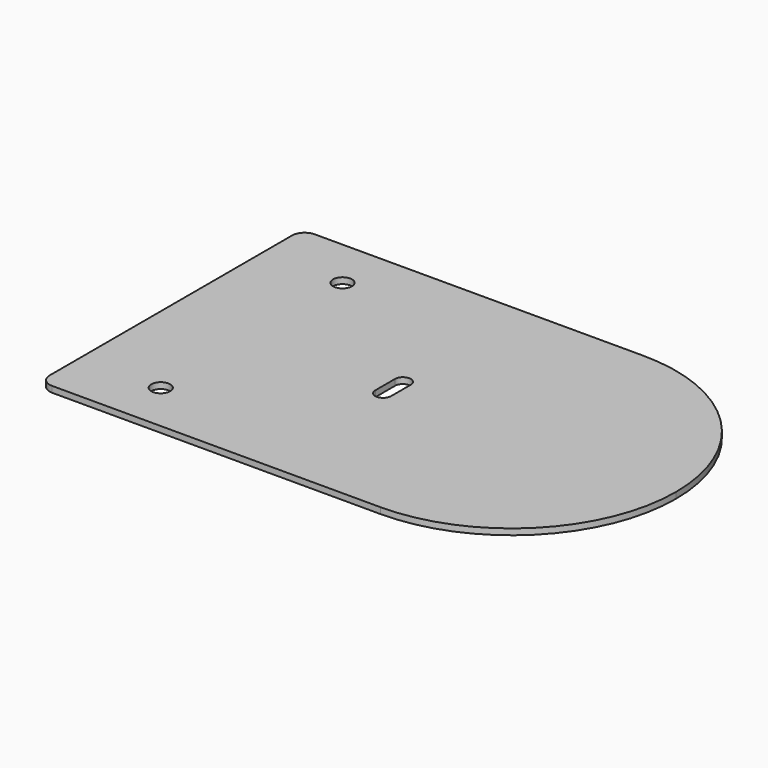
from build123d import *

# Parameters (mm, degrees)
F0_R     = 1.190625
F1_DEPTH = 0.762


with BuildPart() as f1:
    # F0 (on Top) → F1 (new body)
    with BuildSketch(Plane.XY):
        with BuildLine():
            Line((-30.1625, -20.6375), (11.1125, -20.6375))
            ThreePointArc((11.1125, -20.6375), (25.705416, -14.592916), (31.75, 0))
            ThreePointArc((31.75, 0), (25.705416, 14.592916), (11.1125, 20.6375))
            Line((11.1125, 20.6375), (-30.1625, 20.6375))
            ThreePointArc((-30.1625, 20.6375), (-31.285032, 20.172532), (-31.75, 19.05))
            Line((-31.75, 19.05), (-31.75, -19.05))
            ThreePointArc((-31.75, -19.05), (-31.285032, -20.172532), (-30.1625, -20.6375))
        make_face()
        with Locations((-21.59, -14.2875)):
            Circle(F0_R, mode=Mode.SUBTRACT)
        with BuildLine():
            Line((-2.8194, 1.5494), (-2.8194, -1.5494))
            ThreePointArc((-2.8194, -1.5494), (-3.81, -2.54), (-4.8006, -1.5494))
            Line((-4.8006, -1.5494), (-4.8006, 1.5494))
            ThreePointArc((-4.8006, 1.5494), (-3.81, 2.54), (-2.8194, 1.5494))
        make_face(mode=Mode.SUBTRACT)
        with Locations((-21.59, 14.2875)):
            Circle(F0_R, mode=Mode.SUBTRACT)
    extrude(amount=F1_DEPTH)


solid = f1.part
